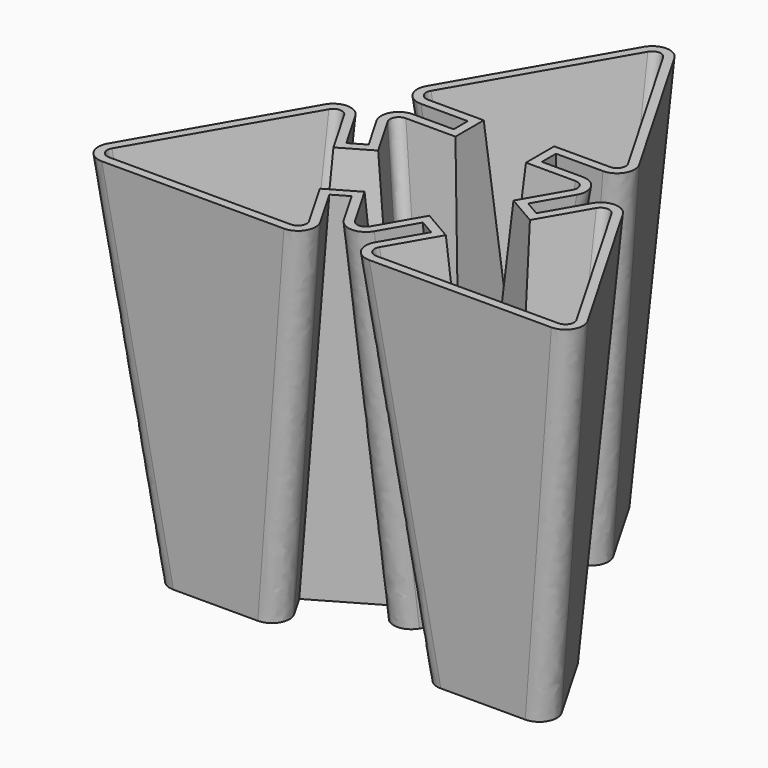
from build123d import *

# Parameters (mm, degrees)
F4_R = 2
F5_T = -1


with BuildPart() as f3:
    # F0 (on Top) → F3 section 0
    with BuildSketch(Plane.XY):
        Polygon((0, 27.015480275), (-8.2339443361, 12.7538703382), (-1.799999848, 12.7538703382), (-1.799999848, 4.3538700342), (-7.5411241088, 4.3538700342), (-4.6705619784, -0.6180894219), (-11.9451756335, -4.8180895739), (-15.1621478775, 0.7538697993), (-23.3960922136, -13.5077401375), (-6.9282035414, -13.5077401375), (-10.1451757855, -7.9357807643), (-2.8705621304, -3.7357806123), (0, -8.7077400684), (2.8705621304, -3.7357806123), (10.1451757855, -7.9357807643), (6.9282035414, -13.5077401375), (23.3960922136, -13.5077401375), (15.1621478775, 0.7538697993), (11.9451756335, -4.8180895739), (4.6705619784, -0.6180894219), (7.5411241088, 4.3538700342), (1.799999848, 4.3538700342), (1.799999848, 12.7538703382), (8.2339443361, 12.7538703382), align=None)
    # F2 (on offset) → F3 section 1
    with BuildSketch(Plane.XY.offset(42.3)):
        Polygon((-28.9086869633, -16.7693752175), (-1.3556725961, -16.7693752175), (-5.7439261879, -9.16869704), (-4.0118753803, -8.16869704), (0.0299680978, -15.1693753004), (4.071811576, -8.16869704), (5.8038623835, -9.16869704), (1.4156087917, -16.7693752175), (28.9686231589, -16.7693752175), (15.1921159753, 7.0922351753), (10.8038623835, -0.5084430022), (9.071811576, 0.4915569978), (13.1136550541, 7.4922352582), (5.0299680978, 7.4922352582), (5.0299680978, 9.4922352582), (13.8064752814, 9.4922352582), (0.0299680978, 33.353845651), (-13.7465390858, 9.4922352582), (-4.9700319022, 9.4922352582), (-4.9700319022, 7.4922352582), (-13.0537188585, 7.4922352582), (-9.0118753803, 0.4915569978), (-10.7439261879, -0.5084430022), (-15.1321797797, 7.0922351753), align=None)
    loft()

    # F4
    f4_edges = [f3.edges().sort_by_distance(p)[0] for p in [
        (-26.15239, -15.138558, 21.15),
        (26.182358, -15.138558, 21.15),
        (0.014984, 30.184663, 21.15),
        (15.177132, 3.923052, 21.15),
        (11.02021, 11.123053, 21.15),
        (-10.990242, 11.123053, 21.15),
        (-15.147164, 3.923052, 21.15),
        (4.171906, -15.138558, 21.15),
        (-4.141938, -15.138558, 21.15),
        (-10.297421, 5.923053, 21.15),
        (0.014984, -11.938558, 21.15),
        (10.32739, 5.923053, 21.15),
    ]]
    fillet(f4_edges, radius=F4_R)

    # F5
    f5_openings = [f3.faces().sort_by_distance(p)[0] for p in [
        (0.029985, -0.061669, 42.3),
    ]]
    offset(amount=F5_T, openings=f5_openings, kind=Kind.INTERSECTION)


solid = f3.part
